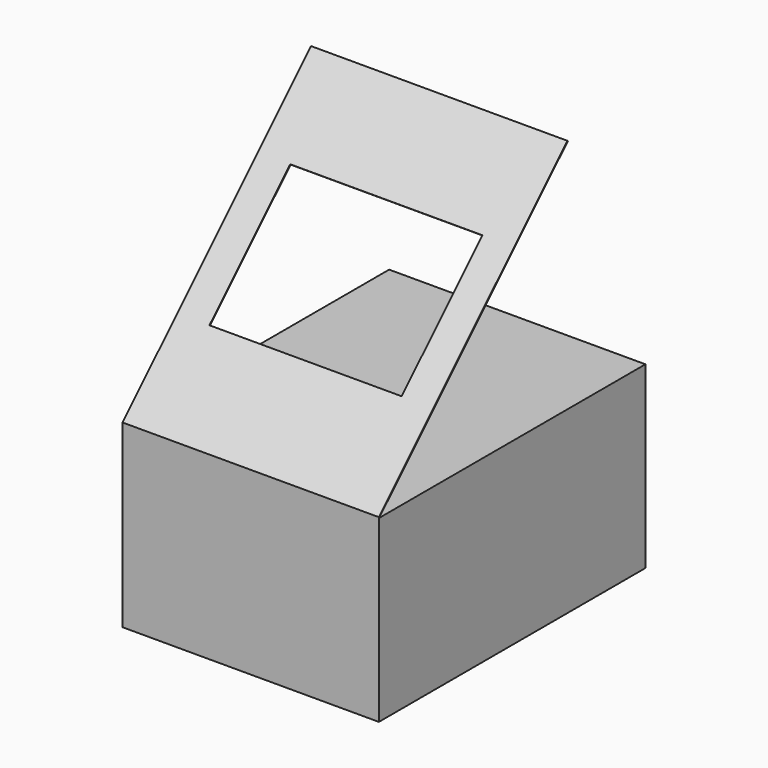
from build123d import *

# Parameters (mm, degrees)
F1_DEPTH = 63.5
F2_W     = 95.249975
F2_H     = 70.64375
F3_DEPTH = 0.4064


with BuildPart() as f1:
    # F0 (on Right) → F1 (new body, symmetric)
    with BuildSketch(Plane.YZ):
        Polygon((-165.1, 0), (0, 0), (0, 88.9), (-164.6936, 88.9), (-164.6936, 89.154), (-48.069302, 205.778298), (-48.35667, 206.065666), (-165.1, 89.322336), align=None)
    extrude(amount=F1_DEPTH, both=True)

    # F2 (on face) → F3 (cut, through all)
    with BuildSketch(Plane(origin=(0, -127.211168, 127.211168), x_dir=(1, 0, 0), z_dir=(0, -0.707107, 0.707107))):
        with Locations((0.111061, 29.60085)):
            Rectangle(F2_W, F2_H)
    extrude(amount=-F3_DEPTH, mode=Mode.SUBTRACT)


solid = f1.part
